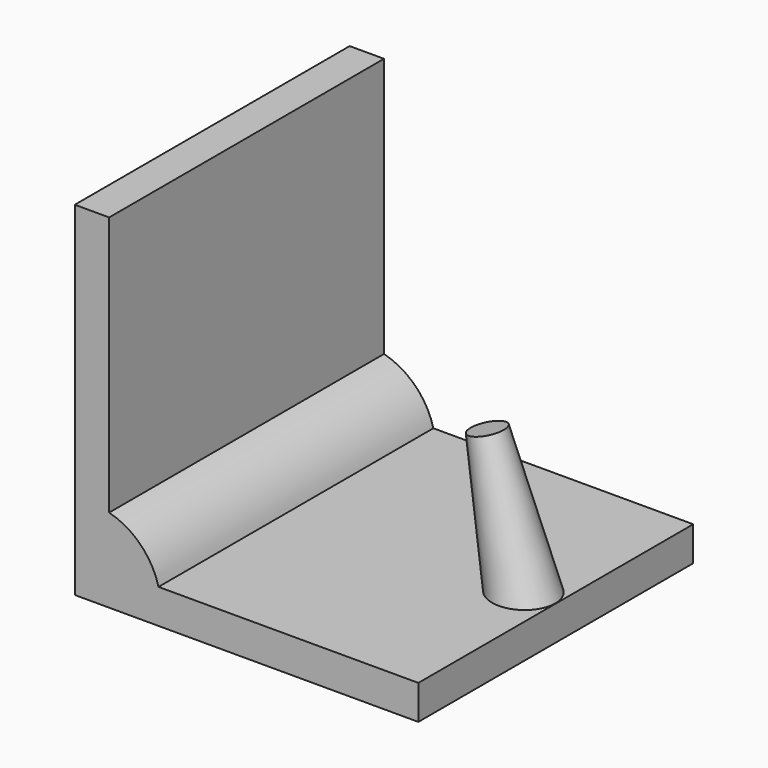
from build123d import *

# Parameters (mm, degrees)
BOX002_W            = 15
BOX002_H            = 10
BOX002_DEPTH        = 2
BOX003_W            = 3
BOX003_H            = 10
BOX003_DEPTH        = 10
BOX004_W            = 2
BOX004_H            = 10
BOX004_DEPTH        = 1
BOX001_W            = 1
BOX001_H            = 10
BOX001_DEPTH        = 10
CONE_PITCH_ANGLE    = -15
CYLINDER_R          = 2
CYLINDER_DEPTH      = 10
CYLINDER_ROLL_ANGLE = 90
BOX_W               = 10
BOX_H               = 10
BOX_DEPTH           = 1


with BuildPart() as cubo002:
    # Box002 → Box002 (new body)
    with BuildSketch(Plane(origin=(-3, 0, -2), x_dir=(1, 0, 0), z_dir=(0, 0, 1))):
        with Locations((7.5, 5)):
            Rectangle(BOX002_W, BOX002_H)
    extrude(amount=BOX002_DEPTH)


with BuildPart() as cubo003:
    # Box003 → Box003 (new body)
    with BuildSketch(Plane(origin=(-3, 0, 0), x_dir=(1, 0, 0), z_dir=(0, 0, 1))):
        with Locations((1.5, 5)):
            Rectangle(BOX003_W, BOX003_H)
    extrude(amount=BOX003_DEPTH)


with BuildPart() as cubo004:
    # Box004 → Box004 (new body)
    with BuildSketch(Plane(origin=(10, 0, 0), x_dir=(1, 0, 0), z_dir=(0, 0, 1))):
        with Locations((1, 5)):
            Rectangle(BOX004_W, BOX004_H)
    extrude(amount=BOX004_DEPTH)


with BuildPart() as cubo001:
    # Box001 → Box001 (new body)
    with BuildSketch(Plane.XY):
        with Locations((0.5, 5)):
            Rectangle(BOX001_W, BOX001_H)
    extrude(amount=BOX001_DEPTH)


with BuildPart() as cono:
    # Cone → Cone (revolve)
    with BuildSketch(Plane.XZ):
        Polygon((0, 0), (1, 0), (0.5, 5), (0, 5), align=None)
    revolve(axis=Axis((0, 0, 0), (0, 0, 1)))


with BuildPart() as cono_1:
    # Cone pitch: moved
    add(cono.part.rotate(Axis((0, 0, 0), (0, 1, 0)), CONE_PITCH_ANGLE))


with BuildPart() as cono_2:
    # Cone placement: moved
    add(cono_1.part.moved(Location((9.3, 5, 0))))


with BuildPart() as cilindro:
    # Cylinder → Cylinder (new body)
    with BuildSketch(Plane.XY):
        Circle(CYLINDER_R)
    extrude(amount=CYLINDER_DEPTH)


with BuildPart() as cilindro_1:
    # Cylinder roll: moved
    add(cilindro.part.rotate(Axis((0, 0, 0), (1, 0, 0)), CYLINDER_ROLL_ANGLE))


with BuildPart() as cilindro_2:
    # Cylinder placement: moved
    add(cilindro_1.part.moved(Location((0.5, 10, 0.5))))


with BuildPart() as cut002:
    # Box → Box (new body)
    with BuildSketch(Plane.XY):
        with Locations((5, 5)):
            Rectangle(BOX_W, BOX_H)
    extrude(amount=BOX_DEPTH)

    # Fusion: union Cubo001, Cono, Cilindro
    add(cubo001.part)
    add(cono_2.part)
    add(cilindro_2.part)

    # Cut: cut Cubo004
    add(cubo004.part, mode=Mode.SUBTRACT)

    # Cut001: cut Cubo003
    add(cubo003.part, mode=Mode.SUBTRACT)

    # Cut002: cut Cubo002
    add(cubo002.part, mode=Mode.SUBTRACT)


solid = cut002.part
